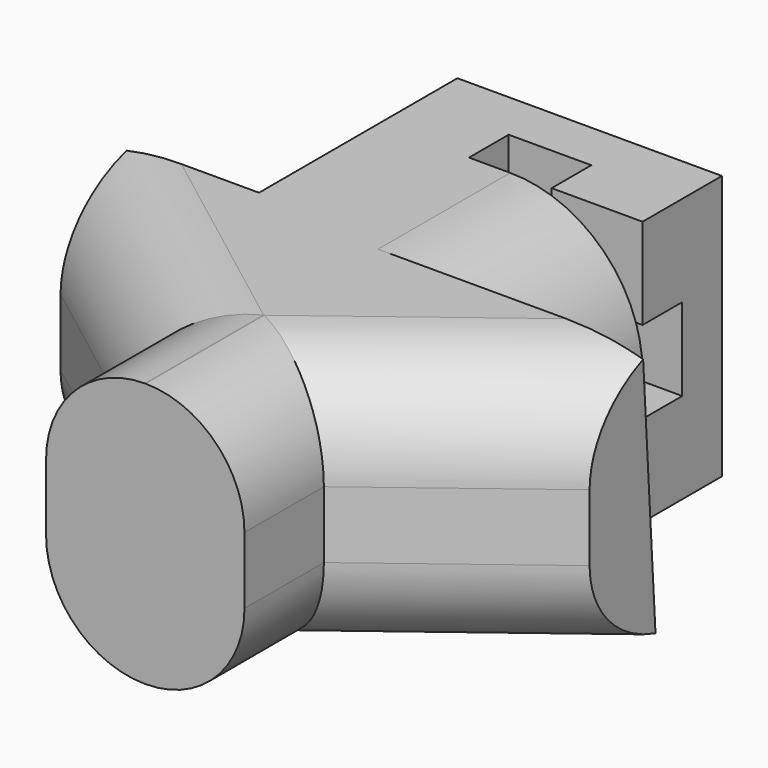
from build123d import *

# Parameters (mm, degrees)
PAD_DEPTH       = 8
PAD001_DEPTH    = 5
PAD002_DEPTH    = 4
PAD003_DEPTH    = 4
SKETCH004_W     = 8
SKETCH004_H     = 8
PAD004_DEPTH    = 3
SKETCH005_W     = 2.5
SKETCH005_H     = 1.5
POCKET_DEPTH    = 8.001
SKETCH006_W     = 1.5
SKETCH006_H     = 2.5
POCKET001_DEPTH = 12.001
FILLET_R        = 2.99
FILLET001_R     = 2.99


with BuildPart() as part:
    # Sketch → Pad (new body)
    with BuildSketch(Plane.XY):
        Polygon((-8, 0), (8, 0), (8, -2), (3, -5.8), (3, -8.8), (-3, -8.8), (-3, -5.8), (-8, -2), align=None)
    extrude(amount=PAD_DEPTH)

    # Sketch001 (on Face2 of Pad) → Pad001 (join)
    with BuildSketch(Plane(origin=(0, 0, 0), x_dir=(-1, 0, 0), z_dir=(0, 1, 0))):
        with BuildLine():
            Line((-4, 4), (-4, 0))
            Line((-4, 0), (0, 0))
            ThreePointArc((0, 0), (2.828427, 1.171573), (4, 4))
            Line((4, 4), (4, 8))
            Line((4, 8), (0, 8))
            ThreePointArc((0, 8), (-2.828427, 6.828427), (-4, 4))
        make_face()
    extrude(amount=PAD001_DEPTH)

    # Sketch002 (on Face13 of Pad001) → Pad002 (join)
    with BuildSketch(Plane.YZ.offset(4)):
        Polygon((0, 0), (0, 8), (0.5, 0), align=None)
    extrude(amount=PAD002_DEPTH)

    # Sketch003 (on Face6 of Pad002) → Pad003 (join)
    with BuildSketch(Plane(origin=(-4, 0, 0), x_dir=(0, -1, 0), z_dir=(-1, 0, 0))):
        Polygon((0, 0), (0, 8), (-0.5, 8), align=None)
    extrude(amount=PAD003_DEPTH)

    # Sketch004 (on Face7 of Pad003) → Pad004 (join)
    with BuildSketch(Plane(origin=(0, 5, 0), x_dir=(-1, 0, 0), z_dir=(0, 1, 0))):
        with Locations((0, 4)):
            Rectangle(SKETCH004_W, SKETCH004_H)
    extrude(amount=PAD004_DEPTH)

    # Sketch005 (on Face20 of Pad004) → Pocket (cut, through all)
    with BuildSketch(Plane.XY.offset(8)):
        with Locations((0, 5.75)):
            Rectangle(SKETCH005_W, SKETCH005_H)
    extrude(amount=-POCKET_DEPTH, mode=Mode.SUBTRACT)

    # Sketch006 (on Face9 of Pocket) → Pocket001 (cut, through all)
    with BuildSketch(Plane.YZ.offset(4)):
        with Locations((5.75, 4)):
            Rectangle(SKETCH006_W, SKETCH006_H)
    extrude(amount=-POCKET001_DEPTH, mode=Mode.SUBTRACT)

    # Fillet
    fillet_edges = [part.edges().sort_by_distance(p)[0] for p in [
        (-3, -7.3, 8),
        (3, -7.3, 8),
        (-3, -7.3, 0),
        (3, -7.3, 0),
    ]]
    fillet(fillet_edges, radius=FILLET_R)

    # Fillet001
    fillet001_edges = [part.edges().sort_by_distance(p)[0] for p in [
        (-5.5, -3.9, 8),
        (5.5, -3.9, 8),
        (-5.5, -3.9, 0),
        (5.5, -3.9, 0),
    ]]
    fillet(fillet001_edges, radius=FILLET001_R)


solid = part.part
